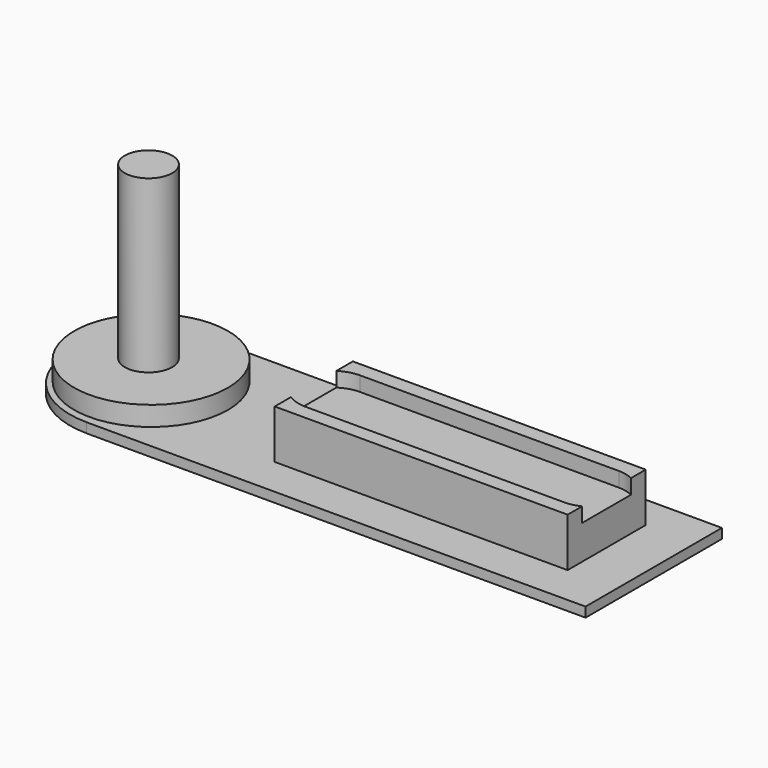
from build123d import *

# Parameters (mm, degrees)
SKETCH_W        = 102.18
SKETCH_H        = 34.92
PAD_DEPTH       = 2
PAD001_DEPTH    = 2
SKETCH002_R     = 15.755262
PAD002_DEPTH    = 4
SKETCH003_R     = 4.859631
PAD003_DEPTH    = 35
SKETCH004_R     = 10
POCKET_DEPTH    = 0.5
SKETCH005_R     = 10
POCKET001_DEPTH = 0.5
SKETCH006_W     = 60
SKETCH006_H     = 20
PAD004_DEPTH    = 10
POCKET002_DEPTH = 3


with BuildPart() as part:
    # Sketch → Pad (new body)
    with BuildSketch(Plane.XY):
        Rectangle(SKETCH_W, SKETCH_H)
    extrude(amount=PAD_DEPTH)

    # Sketch001 → Pad001 (join)
    with BuildSketch(Plane.XY):
        with BuildLine():
            Line((-51.074825, 17.445), (-51.074825, -17.445))
            ThreePointArc((-51.074825, 17.445), (-68.519825, 0), (-51.074825, -17.445))
        make_face()
    extrude(amount=PAD001_DEPTH)

    # Sketch002 (on Face11 of Pad001) → Pad002 (join)
    with BuildSketch(Plane.XY.offset(2)):
        with Locations((-51.87981, 0)):
            Circle(SKETCH002_R)
    extrude(amount=PAD002_DEPTH)

    # Sketch003 (on Face15 of Pad002) → Pad003 (join)
    with BuildSketch(Plane.XY.offset(6)):
        with Locations((-52.405182, 0)):
            Circle(SKETCH003_R)
    extrude(amount=PAD003_DEPTH)

    # Sketch004 (on Face2 of Pad003) → Pocket (cut)
    with BuildSketch(Plane(origin=(0, 0, 0), x_dir=(1, 0, 0), z_dir=(0, 0, -1))):
        with Locations((29.185068, 0)):
            Circle(SKETCH004_R)
    extrude(amount=-POCKET_DEPTH, mode=Mode.SUBTRACT)

    # Sketch005 (on Face2 of Pocket) → Pocket001 (cut)
    with BuildSketch(Plane(origin=(0, 0, 0), x_dir=(1, 0, 0), z_dir=(0, 0, -1))):
        with Locations((-39.903818, 0)):
            Circle(SKETCH005_R)
    extrude(amount=-POCKET001_DEPTH, mode=Mode.SUBTRACT)

    # Sketch006 (on Face4 of Pocket001) → Pad004 (join)
    with BuildSketch(Plane.XY.offset(2)):
        with Locations((10.959466, 0.612018)):
            Rectangle(SKETCH006_W, SKETCH006_H)
    extrude(amount=PAD004_DEPTH)

    # Sketch007 (on DatumPlane) → Pocket002 (cut)
    with BuildSketch(Plane.XY.offset(12)):
        with BuildLine():
            ThreePointArc((-15.157894, 7.560673), (-22.133381, 0.585186), (-15.157894, -6.390301))
            Line((-15.157894, -6.390301), (37.876255, -6.390301))
            ThreePointArc((37.876255, -6.390301), (44.851742, 0.585186), (37.876255, 7.560673))
            Line((37.876255, 7.560673), (-15.157894, 7.560673))
        make_face()
    extrude(amount=-POCKET002_DEPTH, mode=Mode.SUBTRACT)


solid = part.part
